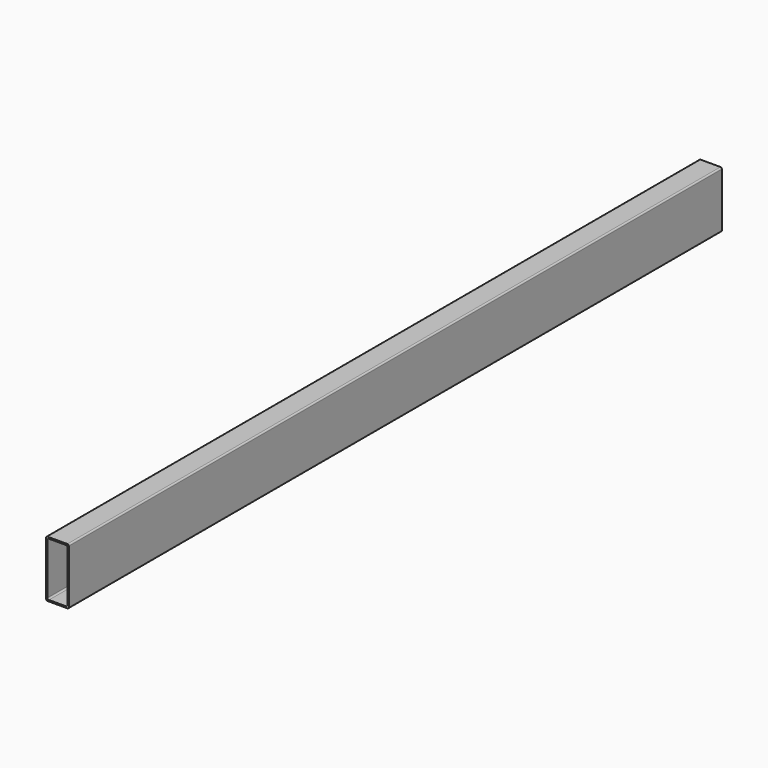
from build123d import *

# Parameters (mm, degrees)
F1_DEPTH = 1828.8


with BuildPart() as f1:
    # F0 (on Front) → F1 (new body)
    with BuildSketch(Plane.XZ):
        with BuildLine():
            ThreePointArc((25.4, 60.325), (24.470064, 62.570064), (22.225, 63.5))
            Line((22.225, 63.5), (-22.225, 63.5))
            ThreePointArc((-22.225, 63.5), (-24.470064, 62.570064), (-25.4, 60.325))
            Line((-25.4, 60.325), (-25.4, -60.325))
            ThreePointArc((-25.4, -60.325), (-24.470064, -62.570064), (-22.225, -63.5))
            Line((-22.225, -63.5), (22.225, -63.5))
            ThreePointArc((22.225, -63.5), (24.470064, -62.570064), (25.4, -60.325))
            Line((25.4, -60.325), (25.4, 60.325))
        make_face()
        with BuildLine():
            Line((-19.05, 60.325), (19.05, 60.325))
            ThreePointArc((19.05, 60.325), (21.295064, 59.395064), (22.225, 57.15))
            Line((22.225, 57.15), (22.225, -57.15))
            ThreePointArc((22.225, -57.15), (21.295064, -59.395064), (19.05, -60.325))
            Line((19.05, -60.325), (-19.05, -60.325))
            ThreePointArc((-19.05, -60.325), (-21.295064, -59.395064), (-22.225, -57.15))
            Line((-22.225, -57.15), (-22.225, 57.15))
            ThreePointArc((-22.225, 57.15), (-21.295064, 59.395064), (-19.05, 60.325))
        make_face(mode=Mode.SUBTRACT)
    extrude(amount=F1_DEPTH)


solid = f1.part
